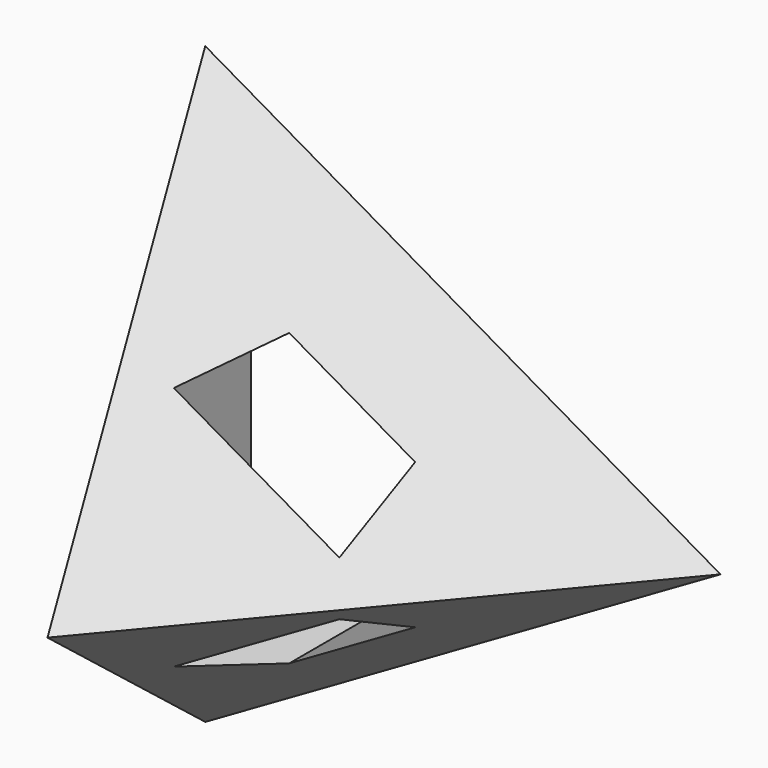
from build123d import *

# Parameters (mm, degrees)
F6_DEPTH = 22.34725


with BuildPart() as f3:
    # F0 (on Front) → F3 section 0
    with BuildSketch(Plane.XZ, mode=Mode.PRIVATE) as f3_s0:
        Polygon((37.5277674973, 0), (-18.7638837487, 32.5), (-18.7638837487, -32.5), align=None)
    loft([f3_s0.sketch, Vertex(0, -45, 0)])

    # F5 (on face) → F6 (cut)
    with BuildSketch(Plane(origin=(0, 0, 0), x_dir=(-1, 0, 0), z_dir=(0, 1, 0))):
        Polygon((-13.7638837487, -7.9465819874), (0, -15.8931639748), (13.7638837487, -7.9465819874), (13.7638837487, 7.9465819874), (0, 15.8931639748), (-13.7638837487, 7.9465819874), align=None)
    extrude(amount=-F6_DEPTH, mode=Mode.SUBTRACT)


solid = f3.part
